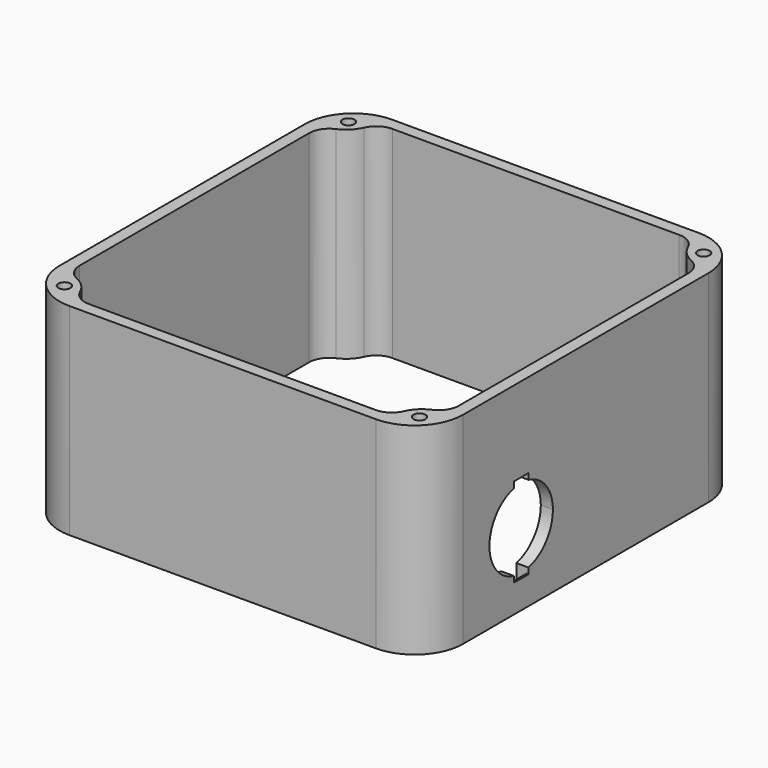
from build123d import *

# Parameters (mm, degrees)
F0_R     = 1.5
F1_DEPTH = 50
F2_R     = 12
F3_R     = 5
F5_DEPTH = 4
F6_SIZE  = 2.5


with BuildPart() as f1:
    # F0 (on Top) → F1 (new body)
    with BuildSketch(Plane.XY):
        with BuildLine():
            Line((-50, 40.1261364576), (-50, -40.1261364576))
            ThreePointArc((-50, -40.1261364576), (-48.5323223277, -39.658202653), (-47, -39.5))
            Line((-47, -39.5), (-47, 39.5))
            ThreePointArc((-47, 39.5), (-48.5323223277, 39.658202653), (-50, 40.1261364576))
        make_face()
        with BuildLine():
            Line((-50, -50), (-40.1261364576, -50))
            ThreePointArc((-40.1261364576, -50), (-39.658202653, -48.5323223277), (-39.5, -47))
            Line((-39.5, -47), (-47, -47))
            Line((-47, -47), (-47, -39.5))
            ThreePointArc((-47, -39.5), (-48.5323223277, -39.658202653), (-50, -40.1261364576))
            Line((-50, -40.1261364576), (-50, -50))
        make_face()
        with BuildLine():
            Line((-47, -47), (-39.5, -47))
            ThreePointArc((-39.5, -47), (-41.6966991411, -41.6966991411), (-47, -39.5))
            Line((-47, -39.5), (-47, -47))
        make_face()
        with Locations((-44, -44)):
            Circle(F0_R, mode=Mode.SUBTRACT)
        with BuildLine():
            Line((-40.1261364576, -50), (40.1261364576, -50))
            ThreePointArc((40.1261364576, -50), (39.658202653, -48.5323223277), (39.5, -47))
            Line((39.5, -47), (-39.5, -47))
            ThreePointArc((-39.5, -47), (-39.658202653, -48.5323223277), (-40.1261364576, -50))
        make_face()
        with BuildLine():
            Line((40.1261364576, -50), (50, -50))
            Line((50, -50), (50, -40.1261364576))
            ThreePointArc((50, -40.1261364576), (48.5323223277, -39.658202653), (47, -39.5))
            Line((47, -39.5), (47, -47))
            Line((47, -47), (39.5, -47))
            ThreePointArc((39.5, -47), (39.658202653, -48.5323223277), (40.1261364576, -50))
        make_face()
        with BuildLine():
            ThreePointArc((47, -39.5), (41.6966991411, -41.6966991411), (39.5, -47))
            Line((39.5, -47), (47, -47))
            Line((47, -47), (47, -39.5))
        make_face()
        with Locations((44, -44)):
            Circle(F0_R, mode=Mode.SUBTRACT)
        with BuildLine():
            ThreePointArc((47, -39.5), (48.5323223277, -39.658202653), (50, -40.1261364576))
            Line((50, -40.1261364576), (50, 40.1261364576))
            ThreePointArc((50, 40.1261364576), (48.5323223277, 39.658202653), (47, 39.5))
            Line((47, 39.5), (47, -39.5))
        make_face()
        with BuildLine():
            ThreePointArc((47, 39.5), (48.5323223277, 39.658202653), (50, 40.1261364576))
            Line((50, 40.1261364576), (50, 50))
            Line((50, 50), (40.1261364576, 50))
            ThreePointArc((40.1261364576, 50), (39.658202653, 48.5323223277), (39.5, 47))
            Line((39.5, 47), (47, 47))
            Line((47, 47), (47, 39.5))
        make_face()
        with BuildLine():
            ThreePointArc((39.5, 47), (41.6966991411, 41.6966991411), (47, 39.5))
            Line((47, 39.5), (47, 47))
            Line((47, 47), (39.5, 47))
        make_face()
        with Locations((44, 44)):
            Circle(F0_R, mode=Mode.SUBTRACT)
        with BuildLine():
            ThreePointArc((39.5, 47), (39.658202653, 48.5323223277), (40.1261364576, 50))
            Line((40.1261364576, 50), (-40.1261364576, 50))
            ThreePointArc((-40.1261364576, 50), (-39.658202653, 48.5323223277), (-39.5, 47))
            Line((-39.5, 47), (39.5, 47))
        make_face()
        with BuildLine():
            Line((-50, 50), (-50, 40.1261364576))
            ThreePointArc((-50, 40.1261364576), (-48.5323223277, 39.658202653), (-47, 39.5))
            Line((-47, 39.5), (-47, 47))
            Line((-47, 47), (-39.5, 47))
            ThreePointArc((-39.5, 47), (-39.658202653, 48.5323223277), (-40.1261364576, 50))
            Line((-40.1261364576, 50), (-50, 50))
        make_face()
        with BuildLine():
            Line((-47, 47), (-47, 39.5))
            ThreePointArc((-47, 39.5), (-41.6966991411, 41.6966991411), (-39.5, 47))
            Line((-39.5, 47), (-47, 47))
        make_face()
        with Locations((-44, 44)):
            Circle(F0_R, mode=Mode.SUBTRACT)
    extrude(amount=F1_DEPTH)

    # F2
    f2_edges = [f1.edges().sort_by_distance(p)[0] for p in [
        (-50, 50, 25),
        (50, 50, 25),
        (50, -50, 25),
        (-50, -50, 25),
    ]]
    fillet(f2_edges, radius=F2_R)

    # F3
    f3_edges = [f1.edges().sort_by_distance(p)[0] for p in [
        (-47, -39.5, 25),
        (-39.5, -47, 25),
        (39.5, -47, 25),
        (47, -39.5, 25),
        (39.5, 47, 25),
        (47, 39.5, 25),
        (-47, 39.5, 25),
        (-39.5, 47, 25),
    ]]
    fillet(f3_edges, radius=F3_R)

    # F4 (on face) → F5 (cut)
    with BuildSketch(Plane.YZ.offset(50)):
        with BuildLine():
            Line((-22.25, 8.4361030432), (-22.25, 27.5638969568))
            ThreePointArc((-22.25, 27.5638969568), (-29.825, 18), (-22.25, 8.4361030432))
        make_face()
        with BuildLine():
            Line((-17.75, 8.4361030432), (-17.75, 27.5638969568))
            ThreePointArc((-17.75, 27.5638969568), (-20, 27.825), (-22.25, 27.5638969568))
            Line((-22.25, 27.5638969568), (-22.25, 8.4361030432))
            ThreePointArc((-22.25, 8.4361030432), (-20, 8.175), (-17.75, 8.4361030432))
        make_face()
        with BuildLine():
            ThreePointArc((-17.75, 8.4361030432), (-12.2981536305, 11.8998206994), (-10.175, 18))
            ThreePointArc((-10.175, 18), (-12.2981536305, 24.1001793006), (-17.75, 27.5638969568))
            Line((-17.75, 27.5638969568), (-17.75, 8.4361030432))
        make_face()
        with BuildLine():
            ThreePointArc((-22.25, 27.5638969568), (-20, 27.825), (-17.75, 27.5638969568))
            Line((-17.75, 27.5638969568), (-17.75, 29.05))
            Line((-17.75, 29.05), (-22.25, 29.05))
            Line((-22.25, 29.05), (-22.25, 27.5638969568))
        make_face()
        with BuildLine():
            Line((-17.75, 6.95), (-17.75, 8.4361030432))
            ThreePointArc((-17.75, 8.4361030432), (-20, 8.175), (-22.25, 8.4361030432))
            Line((-22.25, 8.4361030432), (-22.25, 6.95))
            Line((-22.25, 6.95), (-17.75, 6.95))
        make_face()
    extrude(amount=-F5_DEPTH, mode=Mode.SUBTRACT)

    # F6
    f6_edges = [f1.edges().sort_by_distance(p)[0] for p in [
        (47, -20, 29.05),
        (47, -20, 6.95),
    ]]
    chamfer(f6_edges, length=F6_SIZE)


solid = f1.part
